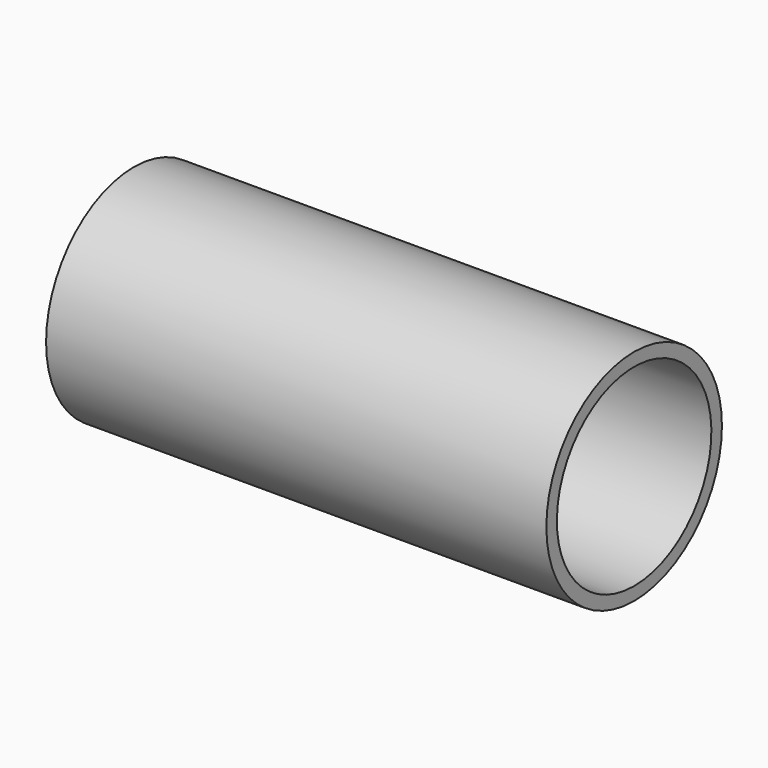
from build123d import *

# Parameters (mm, degrees)
CYLINDER006_R           = 11
CYLINDER006_DEPTH       = 51
CYLINDER006_PITCH_ANGLE = 90
CYLINDER005_R           = 12.5
CYLINDER005_DEPTH       = 57
CYLINDER005_PITCH_ANGLE = 90


with BuildPart() as cylinder004:
    # Cylinder006 → Cylinder006 (new body)
    with BuildSketch(Plane.XY):
        Circle(CYLINDER006_R)
    extrude(amount=CYLINDER006_DEPTH)


with BuildPart() as cylinder004_1:
    # Cylinder006 pitch: moved
    add(cylinder004.part.rotate(Axis((0, 0, 0), (0, 1, 0)), CYLINDER006_PITCH_ANGLE))


with BuildPart() as cylinder004_2:
    # Cylinder006 placement: moved
    add(cylinder004_1.part)


with BuildPart() as batterycap:
    # Cylinder005 → Cylinder005 (new body)
    with BuildSketch(Plane.XY):
        Circle(CYLINDER005_R)
    extrude(amount=CYLINDER005_DEPTH)


with BuildPart() as batterycap_1:
    # Cylinder005 pitch: moved
    add(batterycap.part.rotate(Axis((0, 0, 0), (0, 1, 0)), CYLINDER005_PITCH_ANGLE))


with BuildPart() as batterycap_2:
    # Cylinder005 placement: moved
    add(batterycap_1.part.moved(Location((-6, 0, 0))))

    # Cut003: cut Cylinder004
    add(cylinder004_2.part, mode=Mode.SUBTRACT)


solid = batterycap_2.part
